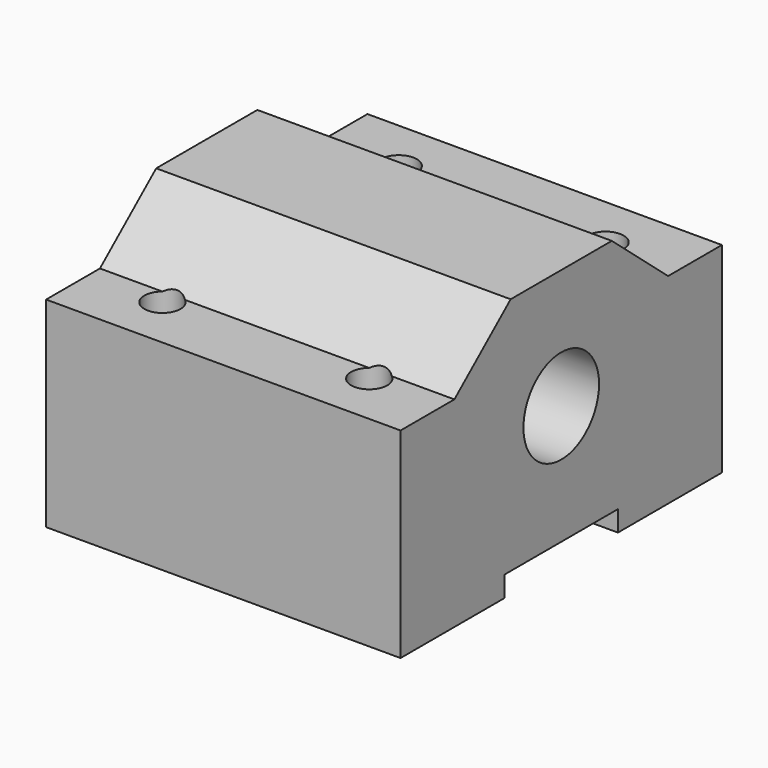
from build123d import *

# Parameters (mm, degrees)
F0_R     = 4
F1_DEPTH = 15
F2_R     = 1.533854
F3_DEPTH = 25


with BuildPart() as f1:
    # F0 (on Right) → F1 (new body, symmetric)
    with BuildSketch(Plane.YZ):
        Polygon((5.351402, 22), (-5.351402, 22), (-11.303023, 16.958306), (-17, 16.958306), (-17, 0), (-6, 0), (-6, 1.75), (6, 1.75), (6, 0), (17, 0), (17, 16.958306), (11.303023, 16.958306), align=None)
        with Locations((0, 11.875)):
            Circle(F0_R, mode=Mode.SUBTRACT)
    extrude(amount=F1_DEPTH, both=True)

    # F2 (on Top) → F3 (cut)
    with BuildSketch(Plane.XY):
        with Locations((-8.75, -12.5)):
            Circle(F2_R)
        with Locations((-8.75, 12.5)):
            Circle(F2_R)
        with Locations((8.75, 12.5)):
            Circle(F2_R)
        with Locations((8.75, -12.5)):
            Circle(F2_R)
    extrude(amount=F3_DEPTH, mode=Mode.SUBTRACT)


solid = f1.part
